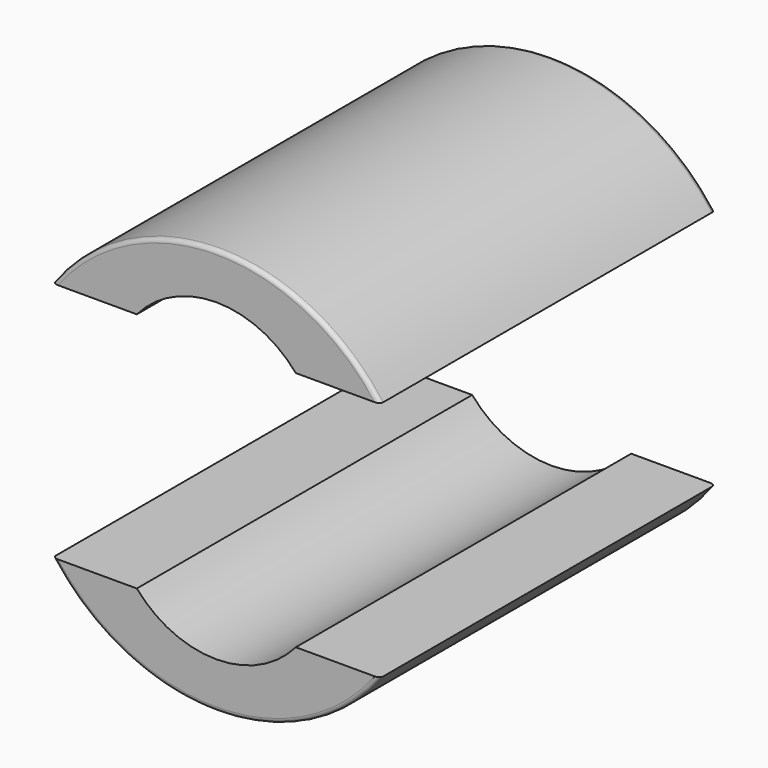
from build123d import *

# Parameters (mm, degrees)
F0_R     = 12.319
F1_DEPTH = 25.4
F3_DEPTH = 25.4
F5_R     = 0.254
F5_2_R   = 0.254


with BuildPart() as f1:
    # F0 (on Front) → F1 (new body)
    with BuildSketch(Plane.XZ):
        Circle(F0_R)
    extrude(amount=F1_DEPTH)

    # F2 (on face) → F3 (intersect)
    with BuildSketch(Plane.XZ.offset(25.4)):
        with BuildLine():
            Line((4.8176888147, 7.3117105875), (9.9144666667, 7.3117105875))
            ThreePointArc((9.9144666667, 7.3117105875), (0, 12.319), (-9.9144666667, 7.3117105875))
            Line((-9.9144666667, 7.3117105875), (-4.8176888147, 7.3117105875))
            ThreePointArc((-4.8176888147, 7.3117105875), (0, 9.525), (4.8176888147, 7.3117105875))
        make_face()
    extrude(amount=-F3_DEPTH, mode=Mode.INTERSECT)


with BuildPart() as f4_1:
    # F4: instance of F1
    add(f1.part.mirror(Plane.XY))

    # F5#2
    f5_2_edges = [f4_1.edges().sort_by_distance(p)[0] for p in [
        (0, -25.4, -12.319),
        (0, 0, -12.319),
    ]]
    fillet(f5_2_edges, radius=F5_2_R)


with BuildPart() as f1_1:
    add(f1.part)

    # F5
    f5_edges = [f1_1.edges().sort_by_distance(p)[0] for p in [
        (0, -25.4, 12.319),
        (0, 0, 12.319),
    ]]
    fillet(f5_edges, radius=F5_R)


solid = Compound([f4_1.part, f1_1.part])
